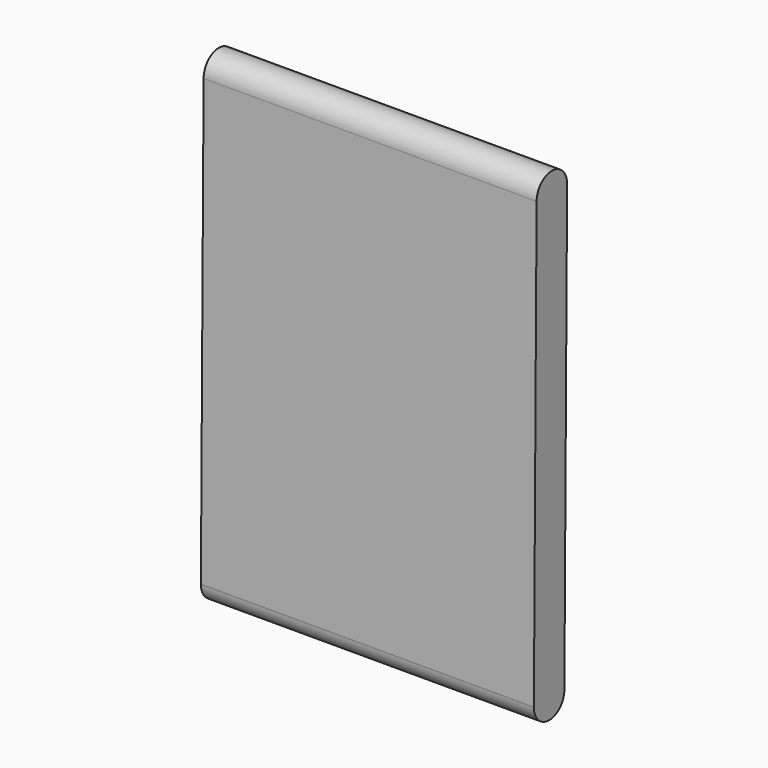
from build123d import *

# Parameters (mm, degrees)
F1_DEPTH = 457.2


with BuildPart() as f1:
    # F0 (on Right) → F1 (new body)
    with BuildSketch(Plane.YZ):
        with BuildLine():
            ThreePointArc((20.69705, 47.699512), (-5.548449, 21.713175), (-31.676846, 47.817252))
            Line((-31.676846, 47.817252), (-36.353531, -561.480551))
            ThreePointArc((-36.353531, -561.480551), (-9.96822, -535.695903), (16.018183, -561.882532))
            Line((16.018183, -561.882532), (20.69705, 47.699512))
        make_face()
        with BuildLine():
            ThreePointArc((16.018183, -561.882532), (-9.96822, -535.695903), (-36.353531, -561.480551))
            Line((-36.353531, -561.480551), (-36.356617, -561.882532))
            ThreePointArc((-36.356617, -561.882532), (-10.169217, -588.069932), (16.018183, -561.882532))
        make_face()
        with BuildLine():
            ThreePointArc((20.69705, 47.699512), (20.697629, 47.80001), (20.697822, 47.900508))
            ThreePointArc((20.697822, 47.900508), (-5.531207, 74.087875), (-31.676846, 47.817252))
            ThreePointArc((-31.676846, 47.817252), (-5.548449, 21.713175), (20.69705, 47.699512))
        make_face()
    extrude(amount=F1_DEPTH)


solid = f1.part
